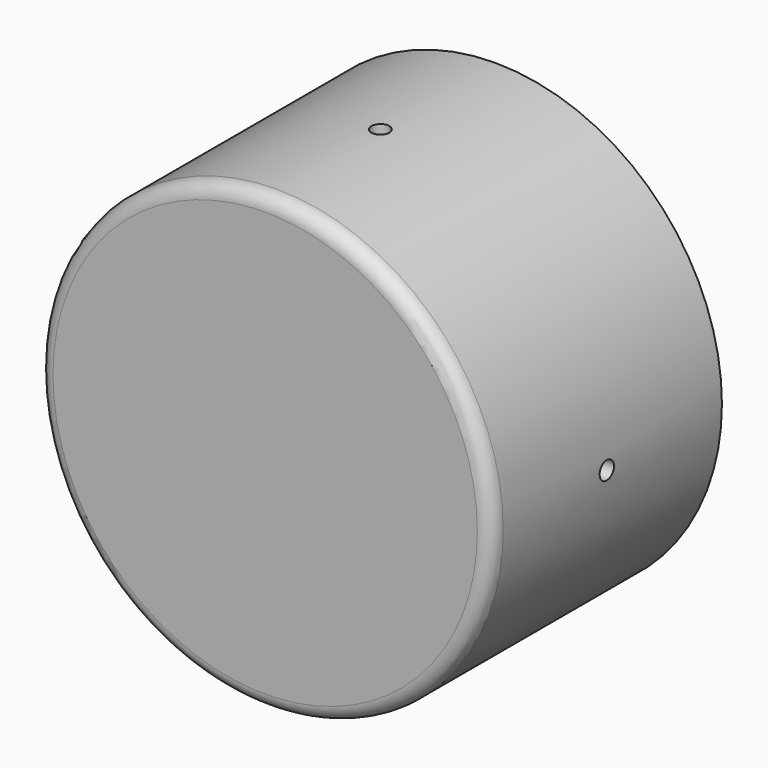
from build123d import *

# Parameters (mm, degrees)
F0_R     = 80
F1_DEPTH = 101.6
F2_R     = 5.08
F3_R     = 75
F4_DEPTH = 90
F5_R     = 3.175
F6_DEPTH = 127
F7_R     = 3.175
F8_DEPTH = 127


with BuildPart() as f1:
    # F0 (on Front) → F1 (new body)
    with BuildSketch(Plane.XZ):
        Circle(F0_R)
    extrude(amount=-F1_DEPTH)

    # F2
    f2_edges = [f1.edges().sort_by_distance(p)[0] for p in [
        (-80, 0, 0),
    ]]
    fillet(f2_edges, radius=F2_R)

    # F3 (on face) → F4 (cut)
    with BuildSketch(Plane(origin=(0, 101.6, 0), x_dir=(-1, 0, 0), z_dir=(0, 1, 0))):
        Circle(F3_R)
    extrude(amount=-F4_DEPTH, mode=Mode.SUBTRACT)

    # F5 (on Top) → F6 (cut, symmetric)
    with BuildSketch(Plane.XY):
        with Locations((0, 50.8)):
            Circle(F5_R)
    extrude(amount=F6_DEPTH, both=True, mode=Mode.SUBTRACT)

    # F7 (on Right) → F8 (cut, symmetric)
    with BuildSketch(Plane.YZ):
        with Locations((50.8, 0)):
            Circle(F7_R)
    extrude(amount=F8_DEPTH, both=True, mode=Mode.SUBTRACT)


solid = f1.part
